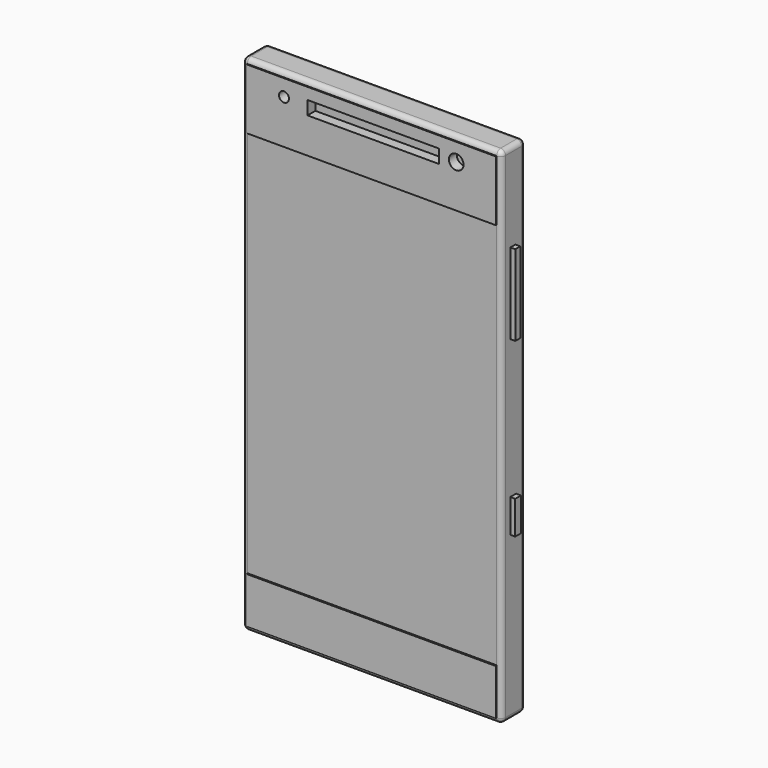
from build123d import *

# Parameters (mm, degrees)
F0_W      = 66.8829083443
F0_H      = 130.1987469196
F1_DEPTH  = 7.7312737703
F2_R      = 1.27
F3_W      = 65.0993585587
F3_H      = 100.7702499628
F1_FACE_W = 64.3429083443
F1_FACE_H = 127.6587469196
F4_DEPTH  = 2.286
F5_W      = 64.9341493845
F5_H      = 100.1578532159
F6_DEPTH  = 7.62
F7_W      = 64.3429083443
F7_H      = 15.6222133744
F8_DEPTH  = 2.54
F9_W      = 33.9078493416
F9_H      = 3.507707268
F9_R      = 1.2895427644
F9_R_2    = 1.8868222833
F10_DEPTH = 2.54
F11_DEPTH = 2.54
F12_W     = 64.3429083443
F12_H     = 11.8786803293
F13_DEPTH = 2.54
F14_W     = 11.2873837352
F14_H     = 10.0332312286
F15_DEPTH = 2.54
F16_R     = 1.27
F17_W     = 8.7473837352
F17_H     = 7.4932312286
F18_DEPTH = 1.27
F19_R     = 1.8325750533
F20_DEPTH = 10.16
F21_W     = 9.5073804259
F21_H     = 1.0563768446
F22_DEPTH = 5.08
F23_W     = 1.6090744175
F23_H     = 20.8489261568
F23_W_2   = 1.8709015567
F23_H_2   = 8.5872001946
F24_DEPTH = 1.27


with BuildPart() as f1:
    # F0 (on Front) → F1 (new body)
    with BuildSketch(Plane.XZ):
        Rectangle(F0_W, F0_H)
    extrude(amount=F1_DEPTH)

    # F2
    f2_edges = [f1.edges().sort_by_distance(p)[0] for p in [
        (0, -7.731274, -65.099373),
        (33.441454, -7.731274, 0),
        (0, -7.731274, 65.099373),
        (-33.441454, -7.731274, 0),
        (0, 0, -65.099373),
        (33.441454, 0, 0),
        (0, 0, 65.099373),
        (-33.441454, 0, 0),
        (-33.441454, -3.865637, 65.099373),
        (33.441454, -3.865637, -65.099373),
        (33.441454, -3.865637, 65.099373),
        (-33.441454, -3.865637, -65.099373),
    ]]
    fillet(f2_edges, radius=F2_R)

    # F3 (on Front) + F1_face (on face) → F4 (cut)
    with BuildSketch(Plane.XZ):
        with Locations((0, -7.4506e-06)):
            Rectangle(F3_W, F3_H)
    with BuildSketch(Plane.XZ.offset(7.7312737703)):
        Rectangle(F1_FACE_W, F1_FACE_H)
    extrude(amount=-F4_DEPTH, mode=Mode.SUBTRACT)

    # F5 (on Front) → F6 (join)
    with BuildSketch(Plane.XZ):
        with Locations((0.0237450004, -1.8717665225)):
            Rectangle(F5_W, F5_H)
    extrude(amount=F6_DEPTH)

    # F7 (on face) → F8 (join)
    with BuildSketch(Plane.XZ.offset(5.4452737703)):
        with Locations((0, 56.0182667726)):
            Rectangle(F7_W, F7_H)
    extrude(amount=F8_DEPTH)

    # F9 (on face) → F10 (cut)
    with BuildSketch(Plane.XZ.offset(7.9852737703)):
        with Locations((0.5013104528, 59.1038409621)):
            Rectangle(F9_W, F9_H)
        with Locations((-22.5284751505, 59.5681518316)):
            Circle(F9_R)
        with Locations((21.9313502312, 59.2368096113)):
            Circle(F9_R_2)
    extrude(amount=-F10_DEPTH, mode=Mode.SUBTRACT)

    # F9 (on face) → F11 (cut)
    with BuildSketch(Plane.XZ.offset(7.9852737703)):
        with Locations((0.5013104528, 59.1038409621)):
            Rectangle(F9_W, F9_H)
        with Locations((-22.5284751505, 59.5681518316)):
            Circle(F9_R)
        with Locations((21.9313502312, 59.2368096113)):
            Circle(F9_R_2)
    extrude(amount=-F11_DEPTH, mode=Mode.SUBTRACT)

    # F12 (on face) → F13 (join)
    with BuildSketch(Plane.XZ.offset(5.4452737703)):
        with Locations((0, -57.8900332952)):
            Rectangle(F12_W, F12_H)
    extrude(amount=F13_DEPTH)

    # F14 (on face) → F15 (join)
    with BuildSketch(Plane.XZ):
        with Locations((21.7194668949, 54.1001018137)):
            Rectangle(F14_W, F14_H)
    extrude(amount=-F15_DEPTH)

    # F16
    f16_edges = [f1.edges().sort_by_distance(p)[0] for p in [
        (27.363159, 2.54, 54.100102),
        (21.719467, 2.54, 59.116717),
        (16.075775, 2.54, 54.100102),
        (21.719467, 2.54, 49.083486),
    ]]
    fillet(f16_edges, radius=F16_R)

    # F17 (on face) → F18 (cut)
    with BuildSketch(Plane(origin=(0, 2.54, 0), x_dir=(-1, 0, 0), z_dir=(0, 1, 0))):
        with Locations((-21.7194668949, 54.1001018137)):
            Rectangle(F17_W, F17_H)
    extrude(amount=-F18_DEPTH, mode=Mode.SUBTRACT)

    # F19 (on face) → F20 (cut)
    with BuildSketch(Plane(origin=(0, 0, -65.0993734598), x_dir=(1, 0, 0), z_dir=(0, 0, -1))):
        with Locations((-22.2030133009, 3.3965744078)):
            Circle(F19_R)
    extrude(amount=-F20_DEPTH, mode=Mode.SUBTRACT)

    # F21 (on face) → F22 (cut)
    with BuildSketch(Plane(origin=(0, 0, -65.0993734598), x_dir=(1, 0, 0), z_dir=(0, 0, -1))):
        with Locations((-7.6575875282, 3.9393249899)):
            Rectangle(F21_W, F21_H)
    extrude(amount=-F22_DEPTH, mode=Mode.SUBTRACT)

    # F23 (on face) → F24 (join)
    with BuildSketch(Plane.YZ.offset(33.4414541721)):
        with Locations((-4.0922162589, 31.9034513086)):
            Rectangle(F23_W, F23_H)
        with Locations((-3.992605838, -18.6585467309)):
            Rectangle(F23_W_2, F23_H_2)
    extrude(amount=F24_DEPTH)


solid = f1.part
